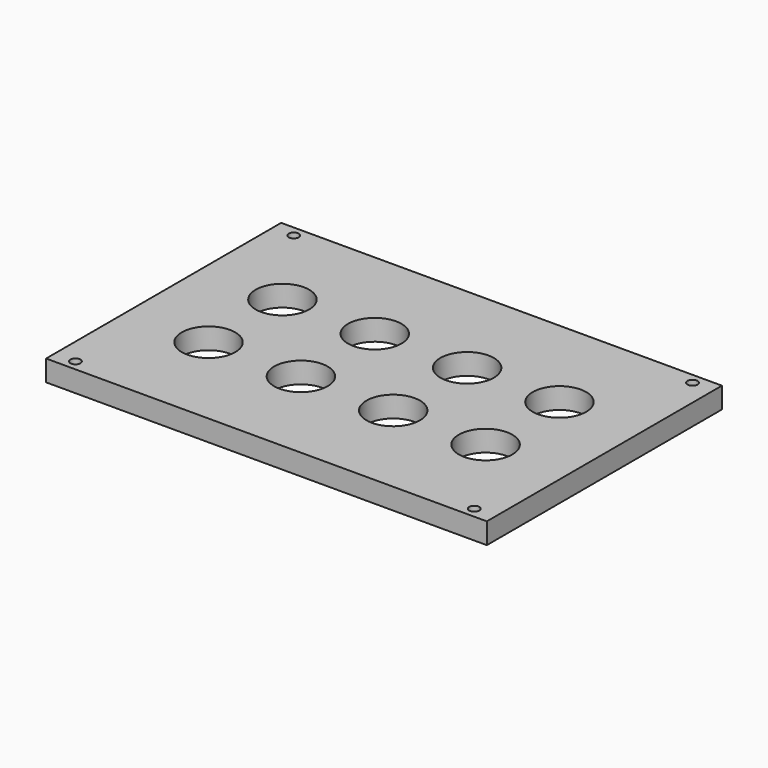
from build123d import *

# Parameters (mm, degrees)
SKETCH_W     = 105
SKETCH_H     = 70
PAD_DEPTH    = 5
SKETCH001_R  = 6.375
POCKET_DEPTH = 5
SKETCH002_R  = 1.2
HOLE_DEPTH   = 25


with BuildPart() as part:
    # Sketch → Pad (new body)
    with BuildSketch(Plane.XY):
        Rectangle(SKETCH_W, SKETCH_H)
    extrude(amount=PAD_DEPTH)

    # Sketch001 (on Face6 of Pad) → Pocket (cut)
    with BuildSketch(Plane.XY.offset(5)):
        with Locations((-33, 11)):
            Circle(SKETCH001_R)
        with Locations((33, 11)):
            Circle(SKETCH001_R)
        with Locations((33, -11)):
            Circle(SKETCH001_R)
        with Locations((-33, -11)):
            Circle(SKETCH001_R)
        with Locations((-11, 11)):
            Circle(SKETCH001_R)
        with Locations((11, 11)):
            Circle(SKETCH001_R)
        with Locations((-11, -11)):
            Circle(SKETCH001_R)
        with Locations((11, -11)):
            Circle(SKETCH001_R)
    extrude(amount=-POCKET_DEPTH, mode=Mode.SUBTRACT)

    # Sketch002 (on Face5 of Pocket) → Hole (cut)
    with BuildSketch(Plane.XY.offset(5)):
        with Locations((-47.5, 32.5)):
            Circle(SKETCH002_R)
        with Locations((47.5, 32.5)):
            Circle(SKETCH002_R)
        with Locations((-47.5, -32.5)):
            Circle(SKETCH002_R)
        with Locations((47.5, -32.5)):
            Circle(SKETCH002_R)
    extrude(amount=-HOLE_DEPTH, mode=Mode.SUBTRACT)


solid = part.part
